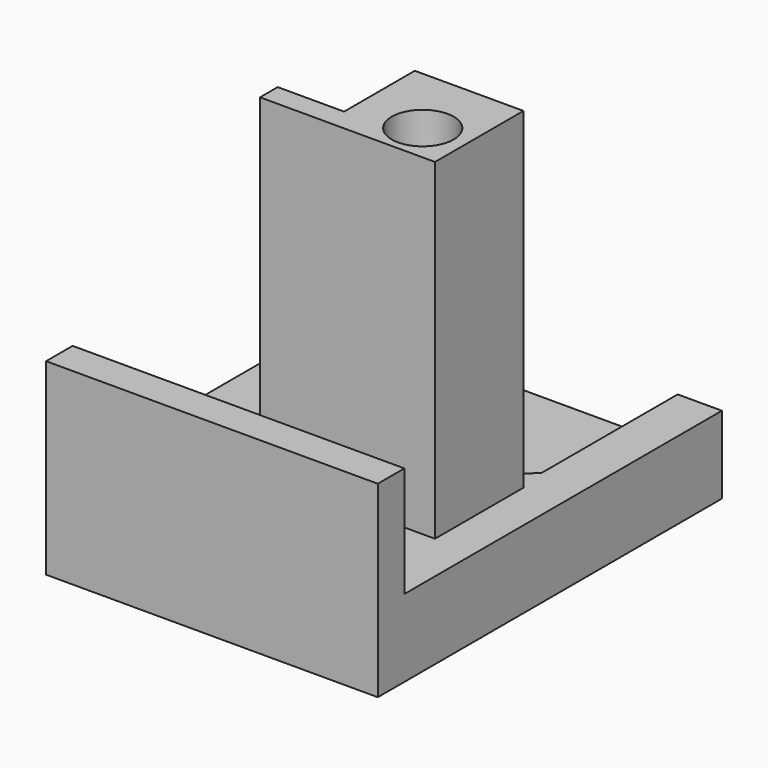
from build123d import *

# Parameters (mm, degrees)
SKETCH016_W     = 30
SKETCH016_H     = 38.9
SKETCH016_R     = 1.25
PAD010_DEPTH    = 7
POCKET005_DEPTH = 4.2
SKETCH020_R     = 2.8
POCKET006_DEPTH = 2.8
SKETCH021_R     = 2.8
PAD011_DEPTH    = 30
SKETCH022_R     = 1.25
POCKET007_DEPTH = 5.3
SKETCH026_W     = 30
SKETCH026_H     = 3
PAD015_DEPTH    = 10


with BuildPart() as part:
    # Sketch016 (on Face1 of ReferencePad007) → Pad010 (new body)
    with BuildSketch(Plane.XY.offset(3.5)):
        with Locations((0, 132.225)):
            Rectangle(SKETCH016_W, SKETCH016_H)
        with Locations((-7.5, 137.225)):
            Circle(SKETCH016_R, mode=Mode.SUBTRACT)
        with Locations((-7.5, 127.225)):
            Circle(SKETCH016_R, mode=Mode.SUBTRACT)
        with Locations((7.5, 137.225)):
            Circle(SKETCH016_R, mode=Mode.SUBTRACT)
        with Locations((7.5, 127.225)):
            Circle(SKETCH016_R, mode=Mode.SUBTRACT)
    extrude(amount=PAD010_DEPTH)

    # Sketch019 (on Face10 of Pad010) → Pocket005 (cut)
    with BuildSketch(Plane.XY.offset(10.5)):
        Polygon((-8.411624, 133.725), (-11, 136.313376), (-11, 151.675), (11, 151.675), (11, 136.313376), (8.411624, 133.725), align=None)
    extrude(amount=-POCKET005_DEPTH, mode=Mode.SUBTRACT)

    # Sketch020 (on Face5 of Pocket005) → Pocket006 (cut)
    with BuildSketch(Plane.XY.offset(10.5)):
        with Locations((-7.5, 127.225)):
            Circle(SKETCH020_R)
        with Locations((7.5, 127.225)):
            Circle(SKETCH020_R)
    extrude(amount=-POCKET006_DEPTH, mode=Mode.SUBTRACT)

    # Sketch021 (on Face5 of Pocket006) → Pad011 (join)
    with BuildSketch(Plane.XY.offset(10.5)):
        Polygon((-4.411624, 123.725), (11.411624, 123.725), (11.411624, 133.725), (1.588376, 133.725), (1.588376, 125.725), (-4.411624, 125.725), align=None)
        with Locations((7.5, 127.225)):
            Circle(SKETCH021_R, mode=Mode.SUBTRACT)
    extrude(amount=PAD011_DEPTH)

    # Sketch022 (on Face14 of Pad011) → Pocket007 (cut)
    with BuildSketch(Plane(origin=(1.588376, 0, 8), x_dir=(0, -1, 0), z_dir=(-1, 0, 0))):
        with Locations((-130.225, 27.5)):
            Circle(SKETCH022_R)
        with Locations((-130.225, 7.5)):
            Circle(SKETCH022_R)
    extrude(amount=-POCKET007_DEPTH, mode=Mode.SUBTRACT)

    # Sketch026 (on Face5 of Pocket007) → Pad015 (join)
    with BuildSketch(Plane.XY.offset(10.5)):
        with Locations((0, 114.275)):
            Rectangle(SKETCH026_W, SKETCH026_H)
    extrude(amount=PAD015_DEPTH)


solid = part.part
